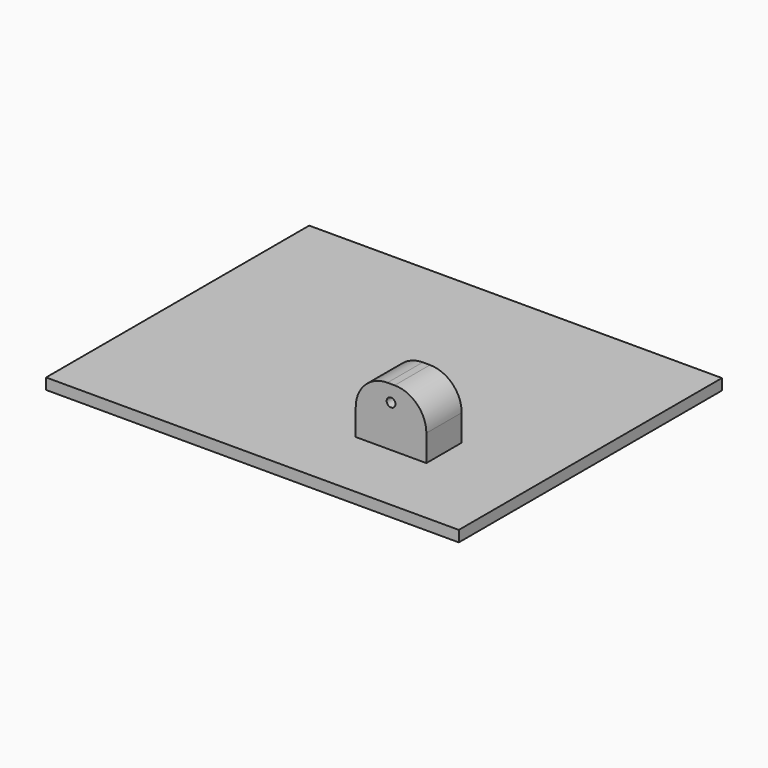
from build123d import *

# Parameters (mm, degrees)
F0_W     = 935.182943
F0_H     = 745.169759
F1_DEPTH = 25
F2_W     = 160
F2_H     = 100
F3_DEPTH = 131.70007
F5_D     = 20
F6_R     = 71.842191


with BuildPart() as f1:
    # F0 (on Top) → F1 (new body)
    with BuildSketch(Plane.XY):
        with Locations((-262.850217, -86.583943)):
            Rectangle(F0_W, F0_H)
    extrude(amount=F1_DEPTH)

    # F2 (on face) → F3 (join)
    with BuildSketch(Plane.XY.offset(25)):
        with Locations((-80, -245.168384)):
            Rectangle(F2_W, F2_H)
    extrude(amount=F3_DEPTH)

    # F5 (through all)
    with Locations(Plane.XZ.offset(295.168384)):
        with Locations((-80.000006, 119.801037)):
            Hole(F5_D / 2)

    # F6
    f6_edges = [f1.edges().sort_by_distance(p)[0] for p in [
        (0, -245.168384, 156.70007),
        (-160, -245.168384, 156.70007),
    ]]
    fillet(f6_edges, radius=F6_R)


solid = f1.part
